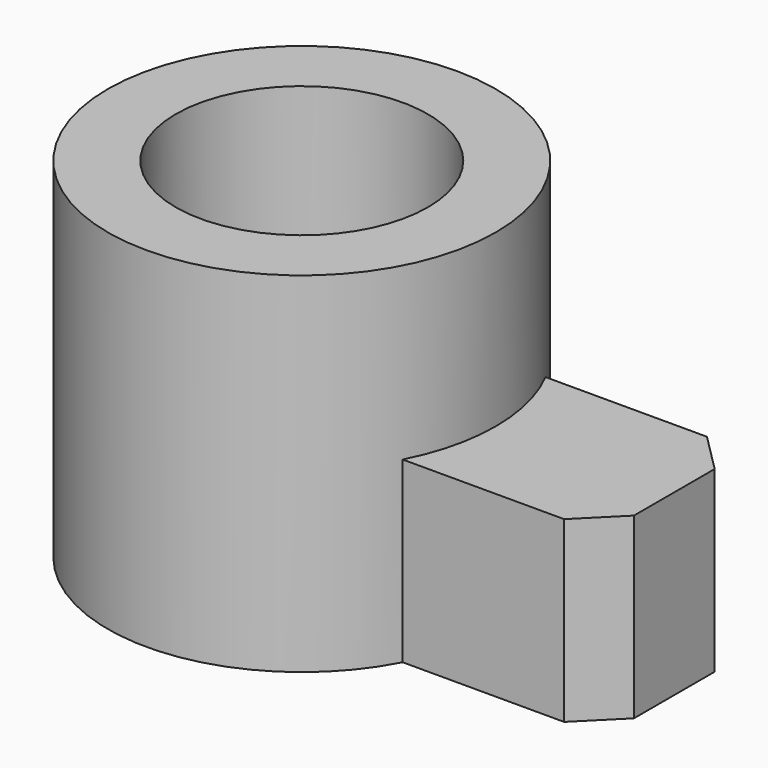
from build123d import *

# Parameters (mm, degrees)
F1_DEPTH = 9
F2_DEPTH = 4.6
F3_SIZE  = 1


with BuildPart() as f1:
    # F0 (on Top) → F1 (new body)
    with BuildSketch(Plane.XY):
        with BuildLine():
            ThreePointArc((4.4395945761, 2.3), (-5, 0), (4.4395945761, -2.3))
            Line((4.4395945761, -2.3), (2.2961925006, -2.3))
            ThreePointArc((2.2961925006, -2.3), (-3.25, 0), (2.2961925006, 2.3))
            Line((2.2961925006, 2.3), (4.4395945761, 2.3))
        make_face()
        with BuildLine():
            Line((2.2961925006, -2.3), (4.4395945761, -2.3))
            ThreePointArc((4.4395945761, -2.3), (4.8578788005, -1.1836441863), (5, 0))
            ThreePointArc((5, 0), (4.8578788005, 1.1836441863), (4.4395945761, 2.3))
            Line((4.4395945761, 2.3), (2.2961925006, 2.3))
            ThreePointArc((2.2961925006, 2.3), (3.0020930721, 1.244964733), (3.25, 0))
            ThreePointArc((3.25, 0), (3.0020930721, -1.244964733), (2.2961925006, -2.3))
        make_face()
    extrude(amount=F1_DEPTH)

    # F0 (on Top) → F2 (join)
    with BuildSketch(Plane.XY):
        with BuildLine():
            Line((4.4395945761, -2.3), (9.6, -2.3))
            Line((9.6, -2.3), (9.6, 2.3))
            Line((9.6, 2.3), (4.4395945761, 2.3))
            ThreePointArc((4.4395945761, 2.3), (4.8578788005, 1.1836441863), (5, 0))
            ThreePointArc((5, 0), (4.8578788005, -1.1836441863), (4.4395945761, -2.3))
        make_face()
    extrude(amount=F2_DEPTH)

    # F3
    f3_edges = [f1.edges().sort_by_distance(p)[0] for p in [
        (9.6, -2.3, 2.3),
        (9.6, 2.3, 2.3),
    ]]
    chamfer(f3_edges, length=F3_SIZE)


solid = f1.part
